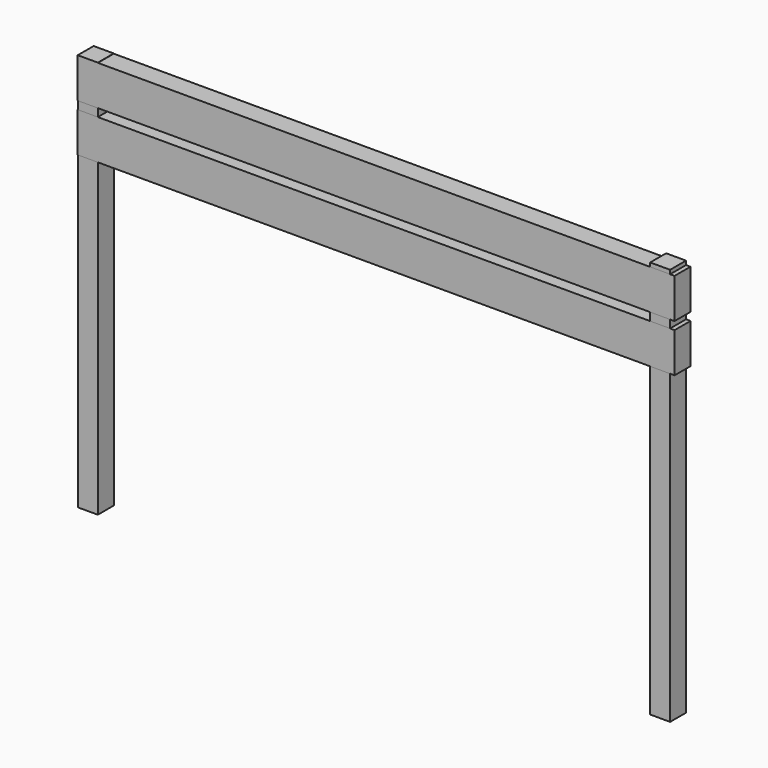
from build123d import *

# Parameters (mm, degrees)
F0_W     = 5.08
F0_H     = 101.6
F1_DEPTH = 5.08
F2_DEPTH = 5.08
F3_W     = 152.4
F3_H     = 10.16
F4_DEPTH = 5.08


with BuildPart() as f1:
    # F0 (on Front) → F1 (new body)
    with BuildSketch(Plane.XZ):
        with Locations((-73.426195, -0.398143)):
            Rectangle(F0_W, F0_H)
        with Locations((72.652138, 0.552174)):
            Rectangle(F0_W, F0_H)
    extrude(amount=F1_DEPTH)


with BuildPart() as f2:
    # F0 (on Front) → F2 (new body)
    with BuildSketch(Plane.XZ):
        with Locations((-73.426195, -0.398143)):
            Rectangle(F0_W, F0_H)
        with Locations((72.652138, 0.552174)):
            Rectangle(F0_W, F0_H)
    extrude(amount=F2_DEPTH)


with BuildPart() as f4:
    # F3 (on Front) → F4 (new body)
    with BuildSketch(Plane.XZ):
        with Locations((0.11846, 45.268817)):
            Rectangle(F3_W, F3_H)
        with Locations((0.138505, 33.083423)):
            Rectangle(F3_W, F3_H)
    extrude(amount=F4_DEPTH)


solid = Compound([f1.part, f2.part, f4.part])
